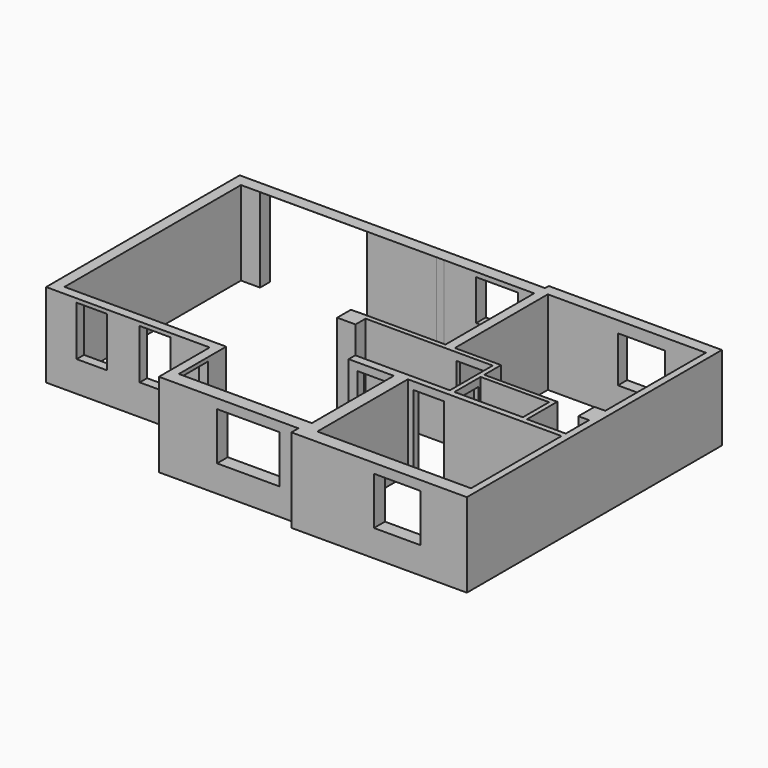
from build123d import *

# Parameters (mm, degrees)
F0_W      = 4020
F0_H      = 2960
F0_W_2    = 1790
F0_H_2    = 854.041485
F0_W_3    = 2480
F0_H_3    = 2900
F1_DEPTH  = 2200
F2_W      = 2800
F2_H      = 2199
F3_DEPTH  = 350
F4_W      = 2905.077265
F4_H      = 2200
F5_DEPTH  = 250
F6_W      = 990
F6_H      = 2200
F7_DEPTH  = 130
F8_W      = 750
F8_H      = 2000
F9_DEPTH  = 250
F10_W     = 800
F10_H     = 2000
F11_DEPTH = 200
F12_W     = 800
F12_H     = 2000
F13_DEPTH = 200
F14_W     = 800
F14_H     = 1300
F15_DEPTH = 240
F16_W     = 1640
F16_H     = 1250
F17_DEPTH = 350
F18_W     = 1220
F18_H     = 1250
F19_DEPTH = 360
F20_W     = 1230
F20_H     = 1200
F21_DEPTH = 300
F22_W     = 1100
F22_H     = 1060
F23_DEPTH = 320
F24_W     = 900
F24_H     = 2100
F25_DEPTH = 240
F26_W     = 700
F26_H     = 2000
F27_DEPTH = 120
F29_DEPTH = 125
F31_DEPTH = 2075


with BuildPart() as f1:
    # F0 (on Top) → F1 (new body)
    with BuildSketch(Plane.XY):
        Polygon((-3390, -1585.958515), (890, -1585.958515), (890, -3245.958515), (4540, -3245.958515), (4540, -3475.958515), (9130, -3475.958515), (9130, 4864.041485), (4600, 4864.041485), (4600, 4744.041485), (-3390, 4744.041485), align=None)
        with Locations((6940, -1635.958515)):
            Rectangle(F0_W, F0_H, mode=Mode.SUBTRACT)
        with Locations((6920, 427.020742)):
            Rectangle(F0_W_2, F0_H_2, mode=Mode.SUBTRACT)
        Polygon((4610, -215.958515), (4610, -2895.958515), (1130, -2895.958515), (1130, -1345.958515), (-3100, -1345.958515), (-3100, 4424.041485), (2020, 4424.041485), (2020, 1518.96422), (1110, 1518.96422), (1110, 1399.993341), (2100, 1399.993341), (2100, 1070), (2580, 1070), (2580, 1400), (5905, 1400), (5905, 0), (3430, 0), (3430, -215.958515), align=None, mode=Mode.SUBTRACT)
        Polygon((4815, 1524.041485), (4815, 4564.041485), (8950, 4564.041485), (8950, 1274.041485), (8670, 1274.041485), (8670, 744.041485), (8950, 744.041485), (8950, -15.958515), (7935, -15.958515), (7935, 974.041485), (6025, 974.041485), (6025, 1524.041485), align=None, mode=Mode.SUBTRACT)
        with Locations((3455, 2974.041485)):
            Rectangle(F0_W_3, F0_H_3, mode=Mode.SUBTRACT)
    extrude(amount=F1_DEPTH)

    # F2 (on face) → F3 (cut)
    with BuildSketch(Plane.XZ.offset(-4424.041485)):
        with Locations((-1200, 1099.5)):
            Rectangle(F2_W, F2_H)
    extrude(amount=-F3_DEPTH, mode=Mode.SUBTRACT)

    # F4 (on face) → F5 (cut)
    with BuildSketch(Plane(origin=(2020, 0, 0), x_dir=(0, -1, 0), z_dir=(-1, 0, 0))):
        with Locations((-2971.502852, 1100)):
            Rectangle(F4_W, F4_H)
    extrude(amount=-F5_DEPTH, mode=Mode.SUBTRACT)

    # F6 (on face) → F7 (cut)
    with BuildSketch(Plane.XZ.offset(-1399.993341)):
        with Locations((1605, 1100)):
            Rectangle(F6_W, F6_H)
    extrude(amount=-F7_DEPTH, mode=Mode.SUBTRACT)

    # F8 (on face) → F9 (cut)
    with BuildSketch(Plane.XZ.offset(215.958515)):
        with Locations((4035, 1000)):
            Rectangle(F8_W, F8_H)
    extrude(amount=-F9_DEPTH, mode=Mode.SUBTRACT)

    # F10 (on face) → F11 (cut)
    with BuildSketch(Plane.XZ.offset(-1400)):
        with Locations((5355, 1000)):
            Rectangle(F10_W, F10_H)
    extrude(amount=-F11_DEPTH, mode=Mode.SUBTRACT)

    # F12 (on face) → F13 (cut)
    with BuildSketch(Plane.XZ.offset(155.958515)):
        with Locations((5480, 1000)):
            Rectangle(F12_W, F12_H)
    extrude(amount=-F13_DEPTH, mode=Mode.SUBTRACT)

    # F14 (on face) → F15 (cut, through all)
    with BuildSketch(Plane.XZ.offset(1585.958515)):
        with Locations((-2190, 1450)):
            Rectangle(F14_W, F14_H)
        with Locations((-540, 1450)):
            Rectangle(F14_W, F14_H)
    extrude(amount=-F15_DEPTH, mode=Mode.SUBTRACT)

    # F16 (on face) → F17 (cut, through all)
    with BuildSketch(Plane.XZ.offset(3245.958515)):
        with Locations((3230, 1325)):
            Rectangle(F16_W, F16_H)
    extrude(amount=-F17_DEPTH, mode=Mode.SUBTRACT)

    # F18 (on face) → F19 (cut, through all)
    with BuildSketch(Plane.XZ.offset(3475.958515)):
        with Locations((7310, 1325)):
            Rectangle(F18_W, F18_H)
    extrude(amount=-F19_DEPTH, mode=Mode.SUBTRACT)

    # F20 (on face) → F21 (cut, through all)
    with BuildSketch(Plane(origin=(0, 4864.041485, 0), x_dir=(-1, 0, 0), z_dir=(0, 1, 0))):
        with Locations((-7265, 1300)):
            Rectangle(F20_W, F20_H)
    extrude(amount=-F21_DEPTH, mode=Mode.SUBTRACT)

    # F22 (on face) → F23 (cut, through all)
    with BuildSketch(Plane(origin=(0, 4744.041485, 0), x_dir=(-1, 0, 0), z_dir=(0, 1, 0))):
        with Locations((-3600, 1550)):
            Rectangle(F22_W, F22_H)
    extrude(amount=-F23_DEPTH, mode=Mode.SUBTRACT)

    # F24 (on face) → F25 (cut, through all)
    with BuildSketch(Plane(origin=(890, 0, 0), x_dir=(0, -1, 0), z_dir=(-1, 0, 0))):
        with Locations((2385.958515, 1050)):
            Rectangle(F24_W, F24_H)
    extrude(amount=-F25_DEPTH, mode=Mode.SUBTRACT)

    # F26 (on face) → F27 (cut, through all)
    with BuildSketch(Plane(origin=(5905, 0, 0), x_dir=(0, -1, 0), z_dir=(-1, 0, 0))):
        with Locations((-440, 1000)):
            Rectangle(F26_W, F26_H)
    extrude(amount=-F27_DEPTH, mode=Mode.SUBTRACT)

    # F28 (on face) → F29 (join)
    with BuildSketch(Plane(origin=(4695, 0, 0), x_dir=(0, -1, 0), z_dir=(-1, 0, 0))):
        Polygon((-1784.041485, 2075), (-1784.041485, 0), (-1524.041485, 0), (-1524.041485, 2200), (-4424.041485, 2200), (-4424.041485, 2075), align=None)
    extrude(amount=F29_DEPTH)

    # F30 (on face) → F31 (join)
    with BuildSketch(Plane(origin=(0, 0, 2075), x_dir=(1, 0, 0), z_dir=(0, 0, -1))):
        Polygon((4695, -4288.742065), (4570, -4424.041485), (4695, -4424.041485), align=None)
    extrude(amount=F31_DEPTH)


solid = f1.part
